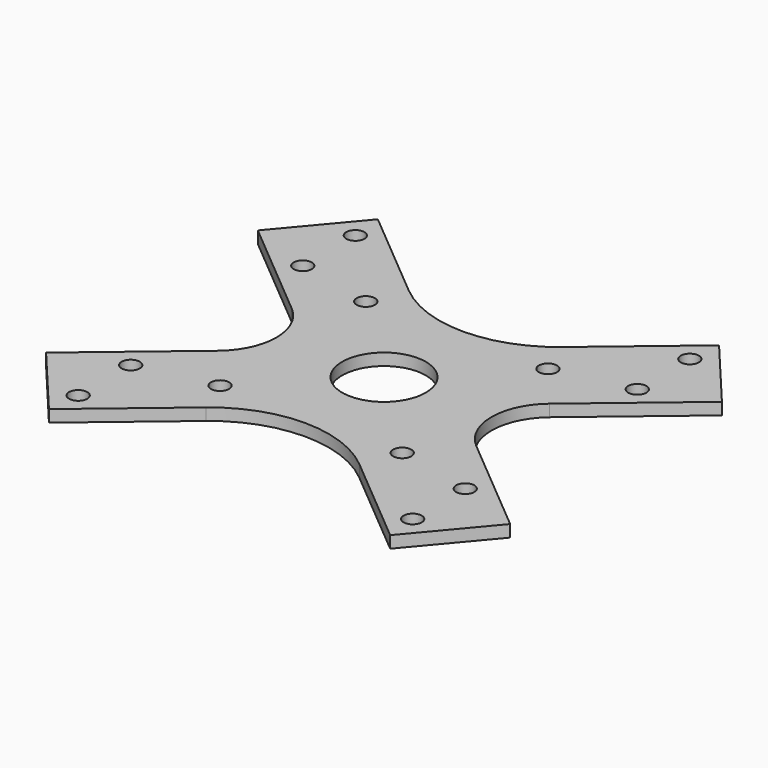
from build123d import *

# Parameters (mm, degrees)
F0_R     = 1.525
F0_R_2   = 7
F1_DEPTH = 2


with BuildPart() as f1:
    # F0 (on Top) → F1 (new body)
    with BuildSketch(Plane.XY):
        with BuildLine():
            Line((-12.855752, 21.230515), (-28.563655, 34.41101))
            Line((-28.563655, 34.41101), (-38.848256, 22.154299))
            Line((-38.848256, 22.154299), (-21.575153, 7.660444))
            ThreePointArc((-21.575153, 7.660444), (-18.003029, 0), (-21.575153, -7.660444))
            Line((-21.575153, -7.660444), (-38.848256, -22.154299))
            Line((-38.848256, -22.154299), (-28.563655, -34.41101))
            Line((-28.563655, -34.41101), (-12.855752, -21.230515))
            ThreePointArc((-12.855752, -21.230515), (0, -16.551404), (12.855752, -21.230515))
            Line((12.855752, -21.230515), (28.563655, -34.41101))
            Line((28.563655, -34.41101), (38.848256, -22.154299))
            Line((38.848256, -22.154299), (21.575153, -7.660444))
            ThreePointArc((21.575153, -7.660444), (18.003029, 0), (21.575153, 7.660444))
            Line((21.575153, 7.660444), (38.848256, 22.154299))
            Line((38.848256, 22.154299), (28.563655, 34.41101))
            Line((28.563655, 34.41101), (12.855752, 21.230515))
            ThreePointArc((12.855752, 21.230515), (0, 16.551404), (-12.855752, 21.230515))
        make_face()
        with Locations((-28, -29)):
            Circle(F0_R, mode=Mode.SUBTRACT)
        with Locations((-28, -18)):
            Circle(F0_R, mode=Mode.SUBTRACT)
        with Locations((-15.25, -15.25)):
            Circle(F0_R, mode=Mode.SUBTRACT)
        with Locations((28, -29)):
            Circle(F0_R, mode=Mode.SUBTRACT)
        with Locations((28, -18)):
            Circle(F0_R, mode=Mode.SUBTRACT)
        with Locations((15.25, -15.25)):
            Circle(F0_R, mode=Mode.SUBTRACT)
        with Locations((-15.25, 15.25)):
            Circle(F0_R, mode=Mode.SUBTRACT)
        with Locations((-28, 18)):
            Circle(F0_R, mode=Mode.SUBTRACT)
        with Locations((-28, 29)):
            Circle(F0_R, mode=Mode.SUBTRACT)
        Circle(F0_R_2, mode=Mode.SUBTRACT)
        with Locations((15.25, 15.25)):
            Circle(F0_R, mode=Mode.SUBTRACT)
        with Locations((28, 18)):
            Circle(F0_R, mode=Mode.SUBTRACT)
        with Locations((28, 29)):
            Circle(F0_R, mode=Mode.SUBTRACT)
    extrude(amount=F1_DEPTH)


solid = f1.part
